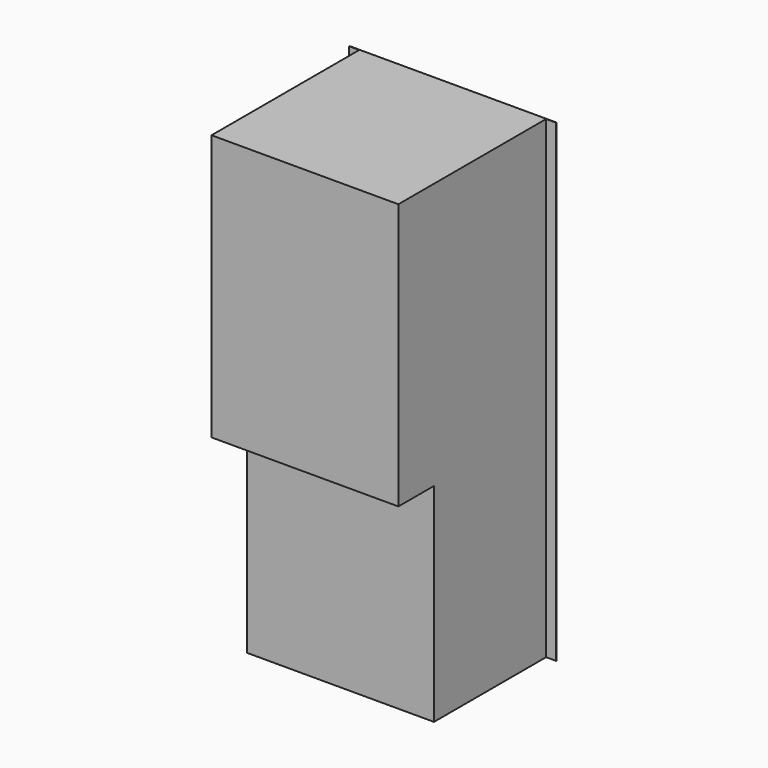
from build123d import *

# Parameters (mm, degrees)
F0_W     = 465
F0_H     = 1065
F1_DEPTH = 1
F2_W     = 420
F2_H     = 1065
F3_DEPTH = 315
F4_W     = 420
F4_H     = 598
F5_DEPTH = 100


with BuildPart() as f1:
    # F0 (on Front) → F1 (new body)
    with BuildSketch(Plane.XZ):
        Rectangle(F0_W, F0_H)
    extrude(amount=F1_DEPTH)

    # F2 (on face) → F3 (join)
    with BuildSketch(Plane.XZ.offset(1)):
        Rectangle(F2_W, F2_H)
    extrude(amount=F3_DEPTH)

    # F4 (on face) → F5 (join)
    with BuildSketch(Plane.XZ.offset(316)):
        with Locations((0, 233.5)):
            Rectangle(F4_W, F4_H)
    extrude(amount=F5_DEPTH)


solid = f1.part
